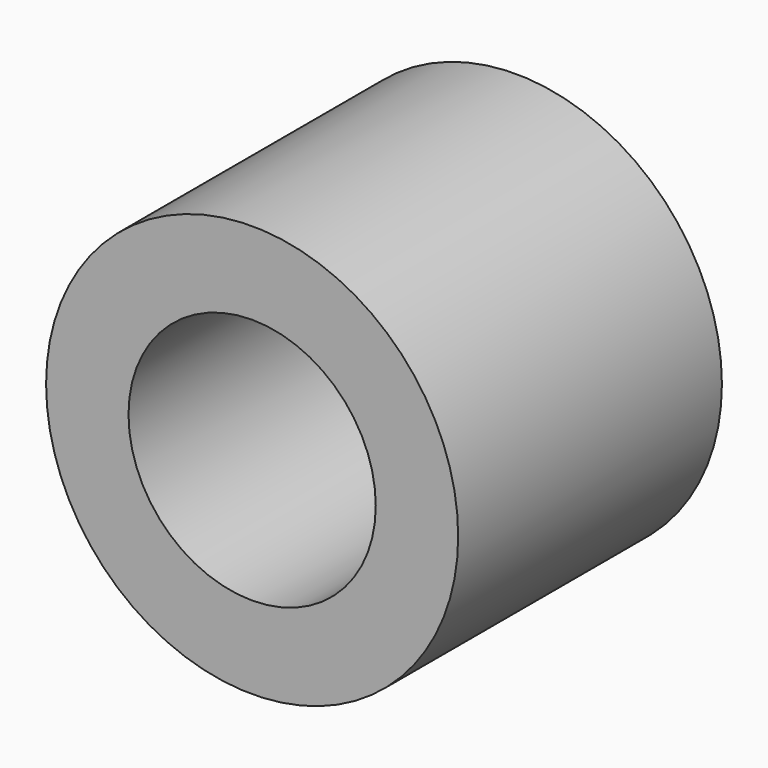
from build123d import *

# Parameters (mm, degrees)
F0_R     = 2.5
F0_R_2   = 1.5
F1_DEPTH = 4
F3_ANGLE = 90


with BuildPart() as f1:
    # F0 (on Top) → F1 (new body)
    with BuildSketch(Plane.XY):
        Circle(F0_R)
        Circle(F0_R_2, mode=Mode.SUBTRACT)
    extrude(amount=F1_DEPTH)


with BuildPart() as f1_1:
    # F3: moved
    add(f1.part.rotate(Axis((-0.057388, 0, 0), (1, 0, 0)), F3_ANGLE))


solid = f1_1.part
